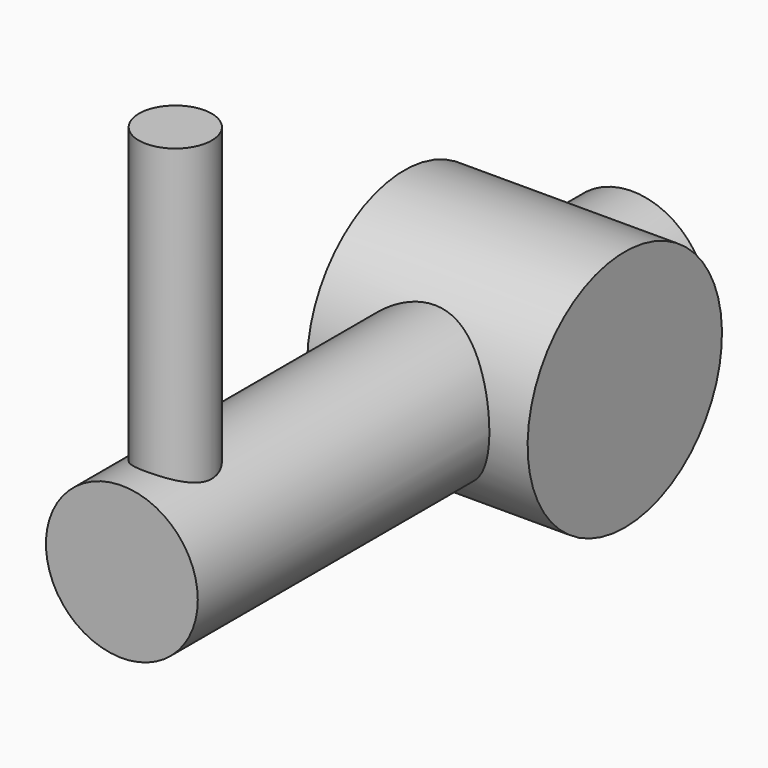
from build123d import *

# Parameters (mm, degrees)
CYLINDER002_R     = 2.5
CYLINDER002_DEPTH = 21
CYLINDER003_R     = 1.2
CYLINDER003_DEPTH = 12
CYLINDER001_R     = 4
CYLINDER001_DEPTH = 7.26


with BuildPart() as cylinder002:
    # Cylinder002 → Cylinder002 (new body)
    with BuildSketch(Plane(origin=(3.5, 5, 0), x_dir=(1, 0, 0), z_dir=(0, -1, 0))):
        Circle(CYLINDER002_R)
    extrude(amount=CYLINDER002_DEPTH)


with BuildPart() as cylinder003:
    # Cylinder003 → Cylinder003 (new body)
    with BuildSketch(Plane(origin=(3.5, -13.8, 0), x_dir=(1, 0, 0), z_dir=(0, 0, 1))):
        Circle(CYLINDER003_R)
    extrude(amount=CYLINDER003_DEPTH)


with BuildPart() as valve:
    # Cylinder001 → Cylinder001 (new body)
    with BuildSketch(Plane(origin=(0, 0, 0), x_dir=(0, 0, -1), z_dir=(1, 0, 0))):
        Circle(CYLINDER001_R)
    extrude(amount=CYLINDER001_DEPTH)

    # Fusion: union Cylinder002, Cylinder003
    add(cylinder002.part)
    add(cylinder003.part)


with BuildPart() as valve_1:
    # Fusion placement: moved
    add(valve.part.moved(Location((10, 0, 15.64))))


solid = valve_1.part
